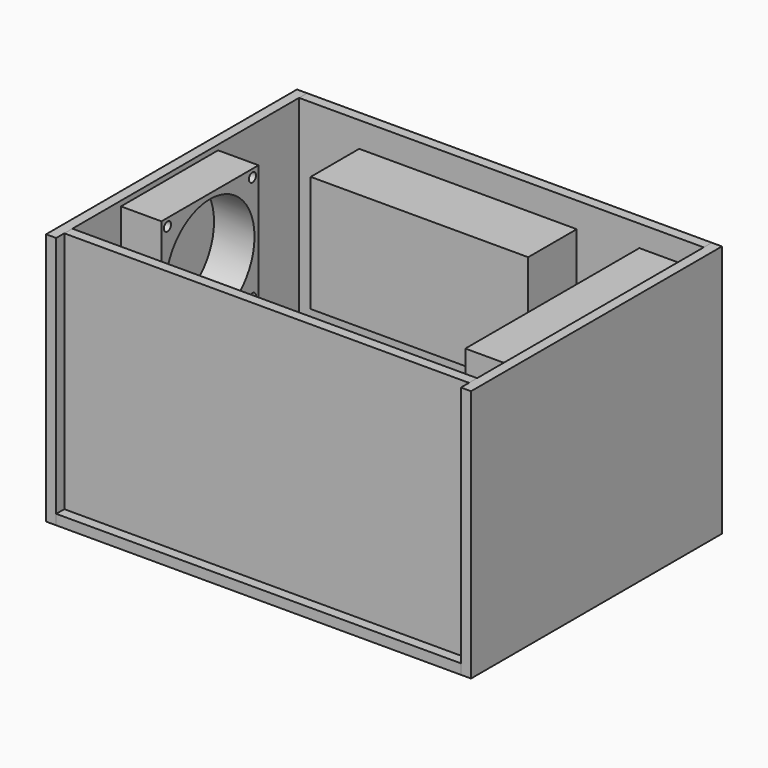
from build123d import *

# Parameters (mm, degrees)
CYLINDER001_R     = 5
CYLINDER001_DEPTH = 50
CYLINDER_R        = 5
CYLINDER_DEPTH    = 50
SKETCH_W          = 280
SKETCH_H          = 180
PAD_DEPTH         = 44
SKETCH001_W       = 30
SKETCH001_H       = 54
PAD001_DEPTH      = 10
SKETCH002_W       = 400
SKETCH002_H       = 300
PAD002_DEPTH      = 10
SKETCH003_W       = 400
SKETCH003_H       = 250
PAD003_DEPTH      = 10
SKETCH004_W       = 215
SKETCH004_H       = 115
PAD004_DEPTH      = 60
SKETCH005_W       = 310
SKETCH005_H       = 250
PAD005_DEPTH      = 10
SKETCH006_W       = 310
SKETCH006_H       = 250
PAD006_DEPTH      = 10
SKETCH007_W       = 400
SKETCH007_H       = 250
PAD007_DEPTH      = 10
BOX_W             = 50
BOX_H             = 215
BOX_DEPTH         = 115
SKETCH009_W       = 121
SKETCH009_H       = 300
SKETCH009_R       = 7.1
SKETCH009_R_2     = 1.3
SKETCH009_W_2     = 18
SKETCH009_H_2     = 7
PAD009_DEPTH      = 10
SKETCH011_W       = 120
SKETCH011_H       = 120
SKETCH011_R       = 4.4
SKETCH011_R_2     = 55
PAD011_DEPTH      = 40
SKETCH012_R       = 3.3
SKETCH012_W       = 22.2
SKETCH012_H       = 42.5
PAD012_DEPTH      = 30
SKETCH013_W       = 400
SKETCH013_H       = 150
SKETCH013_W_2     = 360
SKETCH013_H_2     = 70
PAD013_DEPTH      = 10
SKETCH014_W       = 350
SKETCH014_H       = 110
SKETCH014_R       = 1.3
PAD014_DEPTH      = 20


with BuildPart() as cylinder001:
    # Cylinder001 → Cylinder001 (new body)
    with BuildSketch(Plane(origin=(-155, -66, -30), x_dir=(1, 0, 0), z_dir=(0, 0, 1))):
        Circle(CYLINDER001_R)
    extrude(amount=CYLINDER001_DEPTH)


with BuildPart() as cylinder:
    # Cylinder → Cylinder (new body)
    with BuildSketch(Plane(origin=(155, -66, -25), x_dir=(1, 0, 0), z_dir=(0, 0, 1))):
        Circle(CYLINDER_R)
    extrude(amount=CYLINDER_DEPTH)


with BuildPart() as pad:
    # Sketch → Pad (new body)
    with BuildSketch(Plane.XY):
        Rectangle(SKETCH_W, SKETCH_H)
    extrude(amount=PAD_DEPTH)


with BuildPart() as fusion:
    # Sketch001 → Pad001 (new body)
    with BuildSketch(Plane.XY):
        with Locations((155, -63)):
            Rectangle(SKETCH001_W, SKETCH001_H)
        with Locations((-155, -63)):
            Rectangle(SKETCH001_W, SKETCH001_H)
    extrude(amount=PAD001_DEPTH)

    # Fusion: union Pad
    add(pad.part)


with BuildPart() as cut001:
    # Sketch002 → Pad002 (new body)
    with BuildSketch(Plane(origin=(0, 0, -10), x_dir=(1, 0, 0), z_dir=(0, 0, -1))):
        with Locations((0, -10)):
            Rectangle(SKETCH002_W, SKETCH002_H)
    extrude(amount=-PAD002_DEPTH)

    # Fusion001: union Fusion
    add(fusion.part)

    # Cut: cut Cylinder
    add(cylinder.part, mode=Mode.SUBTRACT)

    # Cut001: cut Cylinder001
    add(cylinder001.part, mode=Mode.SUBTRACT)


with BuildPart() as pad003:
    # Sketch003 → Pad003 (new body)
    with BuildSketch(Plane.XZ.offset(-170)):
        with Locations((0, 115)):
            Rectangle(SKETCH003_W, SKETCH003_H)
    extrude(amount=PAD003_DEPTH)


with BuildPart() as f_12v:
    # Sketch004 → Pad004 (new body)
    with BuildSketch(Plane(origin=(-33, 160, 50), x_dir=(1, 0, 0), z_dir=(0, -1, 0))):
        with Locations((0, 107.5)):
            Rectangle(SKETCH004_W, SKETCH004_H)
    extrude(amount=PAD004_DEPTH)


with BuildPart() as pad005:
    # Sketch005 → Pad005 (new body)
    with BuildSketch(Plane.YZ.offset(200)):
        with Locations((15, 115)):
            Rectangle(SKETCH005_W, SKETCH005_H)
    extrude(amount=PAD005_DEPTH)


with BuildPart() as pad006:
    # Sketch006 → Pad006 (new body)
    with BuildSketch(Plane.YZ.offset(-210)):
        with Locations((15, 115)):
            Rectangle(SKETCH006_W, SKETCH006_H)
    extrude(amount=PAD006_DEPTH)


with BuildPart() as pad007:
    # Sketch007 → Pad007 (new body)
    with BuildSketch(Plane.XZ.offset(120)):
        with Locations((0, 115)):
            Rectangle(SKETCH007_W, SKETCH007_H)
    extrude(amount=PAD007_DEPTH)


with BuildPart() as f_5v:
    # Box → Box (new body)
    with BuildSketch(Plane(origin=(150, -72, 115), x_dir=(1, 0, 0), z_dir=(0, 0, 1))):
        with Locations((25, 107.5)):
            Rectangle(BOX_W, BOX_H)
    extrude(amount=BOX_DEPTH)


with BuildPart() as pad009:
    # Sketch009 → Pad009 (new body)
    with BuildSketch(Plane(origin=(144.196, -120, 190), x_dir=(0, 0, -1), z_dir=(0, 1, 0))):
        with Locations((60.5, 150)):
            Rectangle(SKETCH009_W, SKETCH009_H)
        with Locations((11.81, 19.93)):
            Circle(SKETCH009_R, mode=Mode.SUBTRACT)
        with Locations((11.81, 39.93)):
            Circle(SKETCH009_R, mode=Mode.SUBTRACT)
        with Locations((11.81, 59.93)):
            Circle(SKETCH009_R, mode=Mode.SUBTRACT)
        with Locations((11.81, 79.93)):
            Circle(SKETCH009_R, mode=Mode.SUBTRACT)
        with Locations((11.81, 99.93)):
            Circle(SKETCH009_R, mode=Mode.SUBTRACT)
        with Locations((11.81, 119.93)):
            Circle(SKETCH009_R, mode=Mode.SUBTRACT)
        with Locations((11.81, 146.89)):
            Circle(SKETCH009_R, mode=Mode.SUBTRACT)
        with Locations((11.81, 166.89)):
            Circle(SKETCH009_R, mode=Mode.SUBTRACT)
        with Locations((11.81, 186.89)):
            Circle(SKETCH009_R, mode=Mode.SUBTRACT)
        with Locations((11.81, 246.89)):
            Circle(SKETCH009_R, mode=Mode.SUBTRACT)
        with Locations((109.58, 246.89)):
            Circle(SKETCH009_R, mode=Mode.SUBTRACT)
        with Locations((11.81, 226.89)):
            Circle(SKETCH009_R, mode=Mode.SUBTRACT)
        with Locations((11.81, 206.89)):
            Circle(SKETCH009_R, mode=Mode.SUBTRACT)
        with Locations((109.58, 186.89)):
            Circle(SKETCH009_R, mode=Mode.SUBTRACT)
        with Locations((109.58, 226.89)):
            Circle(SKETCH009_R, mode=Mode.SUBTRACT)
        with Locations((109.58, 206.89)):
            Circle(SKETCH009_R, mode=Mode.SUBTRACT)
        with Locations((109.58, 166.89)):
            Circle(SKETCH009_R, mode=Mode.SUBTRACT)
        with Locations((109.63, 146.89)):
            Circle(SKETCH009_R, mode=Mode.SUBTRACT)
        with Locations((109.63, 119.95)):
            Circle(SKETCH009_R, mode=Mode.SUBTRACT)
        with Locations((109.63, 99.95)):
            Circle(SKETCH009_R, mode=Mode.SUBTRACT)
        with Locations((109.63, 79.95)):
            Circle(SKETCH009_R, mode=Mode.SUBTRACT)
        with Locations((109.63, 59.95)):
            Circle(SKETCH009_R, mode=Mode.SUBTRACT)
        with Locations((109.63, 39.95)):
            Circle(SKETCH009_R, mode=Mode.SUBTRACT)
        with Locations((109.63, 19.95)):
            Circle(SKETCH009_R, mode=Mode.SUBTRACT)
        with Locations((5.9944, 5.9944)):
            Circle(SKETCH009_R_2, mode=Mode.SUBTRACT)
        with Locations((5.9944, 134)):
            Circle(SKETCH009_R_2, mode=Mode.SUBTRACT)
        with Locations((5.9944, 269.79)):
            Circle(SKETCH009_R_2, mode=Mode.SUBTRACT)
        with Locations((115, 269.79)):
            Circle(SKETCH009_R_2, mode=Mode.SUBTRACT)
        with Locations((115, 5.9944)):
            Circle(SKETCH009_R_2, mode=Mode.SUBTRACT)
        with Locations((115, 134)):
            Circle(SKETCH009_R_2, mode=Mode.SUBTRACT)
        with Locations((42.87, 23.07)):
            Rectangle(SKETCH009_W_2, SKETCH009_H_2, mode=Mode.SUBTRACT)
        with Locations((42.87, 62.97)):
            Rectangle(SKETCH009_W_2, SKETCH009_H_2, mode=Mode.SUBTRACT)
        with Locations((42.87, 82.88)):
            Rectangle(SKETCH009_W_2, SKETCH009_H_2, mode=Mode.SUBTRACT)
        with Locations((42.87, 42.9)):
            Rectangle(SKETCH009_W_2, SKETCH009_H_2, mode=Mode.SUBTRACT)
        with Locations((42.87, 149.86)):
            Rectangle(SKETCH009_W_2, SKETCH009_H_2, mode=Mode.SUBTRACT)
        with Locations((42.87, 122.96)):
            Rectangle(SKETCH009_W_2, SKETCH009_H_2, mode=Mode.SUBTRACT)
        with Locations((42.87, 102.93)):
            Rectangle(SKETCH009_W_2, SKETCH009_H_2, mode=Mode.SUBTRACT)
        with Locations((42.87, 169.86)):
            Rectangle(SKETCH009_W_2, SKETCH009_H_2, mode=Mode.SUBTRACT)
        with Locations((42.87, 209.84)):
            Rectangle(SKETCH009_W_2, SKETCH009_H_2, mode=Mode.SUBTRACT)
        with Locations((42.87, 189.89)):
            Rectangle(SKETCH009_W_2, SKETCH009_H_2, mode=Mode.SUBTRACT)
        with Locations((42.87, 250.02)):
            Rectangle(SKETCH009_W_2, SKETCH009_H_2, mode=Mode.SUBTRACT)
        with Locations((42.87, 229.9)):
            Rectangle(SKETCH009_W_2, SKETCH009_H_2, mode=Mode.SUBTRACT)
    extrude(amount=PAD009_DEPTH)


with BuildPart() as pad011:
    # Sketch011 → Pad011 (new body)
    with BuildSketch(Plane(origin=(-200, 0, 175), x_dir=(0, 1, 0), z_dir=(1, 0, 0))):
        Rectangle(SKETCH011_W, SKETCH011_H)
        with Locations((-52.5, 52.5)):
            Circle(SKETCH011_R, mode=Mode.SUBTRACT)
        with Locations((52.5, 52.5)):
            Circle(SKETCH011_R, mode=Mode.SUBTRACT)
        with Locations((-52.5, -52.5)):
            Circle(SKETCH011_R, mode=Mode.SUBTRACT)
        with Locations((52.5, -52.5)):
            Circle(SKETCH011_R, mode=Mode.SUBTRACT)
        Circle(SKETCH011_R_2, mode=Mode.SUBTRACT)
    extrude(amount=PAD011_DEPTH)


with BuildPart() as pad012:
    # Sketch012 → Pad012 (new body)
    with BuildSketch(Plane(origin=(-213, 130, 40), x_dir=(0, 1, 0), z_dir=(1, 0, 0))):
        with Locations((0, 25.3)):
            Circle(SKETCH012_R)
        with Locations((0, -25.3)):
            Circle(SKETCH012_R)
        Rectangle(SKETCH012_W, SKETCH012_H)
    extrude(amount=PAD012_DEPTH)


with BuildPart() as pad013:
    # Sketch013 → Pad013 (new body)
    with BuildSketch(Plane.XY.offset(60)):
        with Locations((0, 12.898185)):
            Rectangle(SKETCH013_W, SKETCH013_H)
        with Locations((0, 12.898185)):
            Rectangle(SKETCH013_W_2, SKETCH013_H_2, mode=Mode.SUBTRACT)
    extrude(amount=PAD013_DEPTH)


with BuildPart() as pad014:
    # Sketch014 → Pad014 (new body)
    with BuildSketch(Plane(origin=(0, 10, 70), x_dir=(1, 0, 0), z_dir=(0, 0, 1))):
        Rectangle(SKETCH014_W, SKETCH014_H)
        with Locations((170.933609, 50)):
            Circle(SKETCH014_R, mode=Mode.SUBTRACT)
        with Locations((170.933609, -50)):
            Circle(SKETCH014_R, mode=Mode.SUBTRACT)
        with Locations((-15.066391, 50)):
            Circle(SKETCH014_R, mode=Mode.SUBTRACT)
        with Locations((-15.066391, -50)):
            Circle(SKETCH014_R, mode=Mode.SUBTRACT)
        with Locations((-171.066391, -50)):
            Circle(SKETCH014_R, mode=Mode.SUBTRACT)
        with Locations((-171.066391, 50)):
            Circle(SKETCH014_R, mode=Mode.SUBTRACT)
    extrude(amount=PAD014_DEPTH)


solid = Compound([cut001.part, pad003.part, f_12v.part, pad005.part, pad006.part, pad007.part, f_5v.part, pad009.part, pad011.part, pad012.part, pad013.part, pad014.part])
